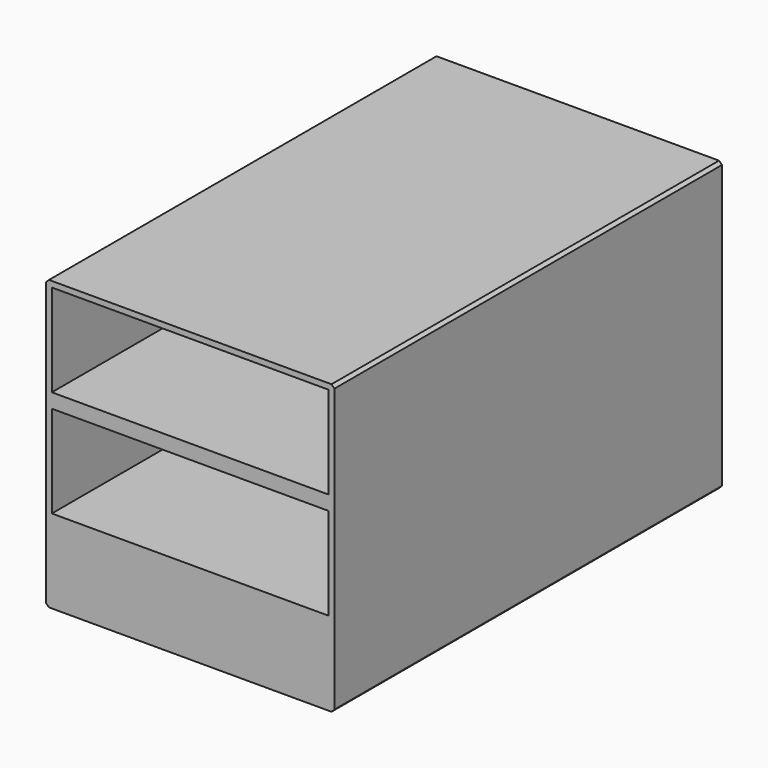
from build123d import *

# Parameters (mm, degrees)
F0_W     = 48
F0_H     = 16
F1_DEPTH = 84


with BuildPart() as f1:
    # F0 (on Front) → F1 (new body)
    with BuildSketch(Plane.XZ):
        with BuildLine():
            Line((25, -24.4948974278), (25, 24.4948974278))
            ThreePointArc((25, 24.4948974278), (24.7487373415, 24.7487373415), (24.4948974278, 25))
            Line((24.4948974278, 25), (-24.4948974278, 25))
            ThreePointArc((-24.4948974278, 25), (-24.7487373415, 24.7487373415), (-25, 24.4948974278))
            Line((-25, 24.4948974278), (-25, -24.4948974278))
            ThreePointArc((-25, -24.4948974278), (-24.7487373415, -24.7487373415), (-24.4948974278, -25))
            Line((-24.4948974278, -25), (24.4948974278, -25))
            ThreePointArc((24.4948974278, -25), (24.7487373415, -24.7487373415), (25, -24.4948974278))
        make_face()
        with Locations((0, -2.5)):
            Rectangle(F0_W, F0_H, mode=Mode.SUBTRACT)
        with Locations((0, 16)):
            Rectangle(F0_W, F0_H, mode=Mode.SUBTRACT)
    extrude(amount=F1_DEPTH)


solid = f1.part
